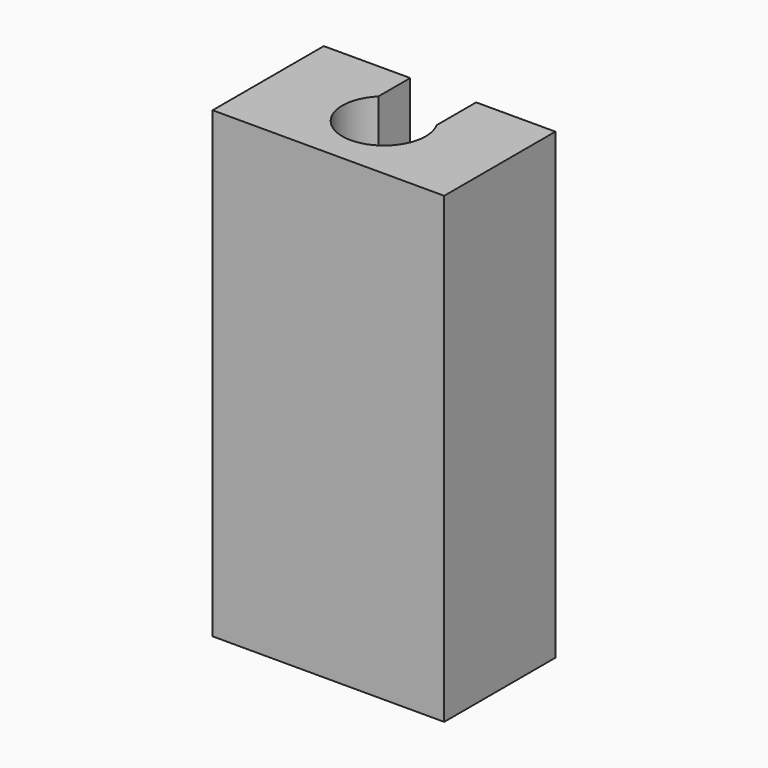
from build123d import *

# Parameters (mm, degrees)
F1_DEPTH = 100


with BuildPart() as f1:
    # F0 (on Top) → F1 (new body)
    with BuildSketch(Plane.XY):
        with BuildLine():
            Line((-25, -15), (25, -15))
            Line((25, -15), (25, 15))
            Line((25, 15), (7.893453, 15))
            Line((7.893453, 15), (7.893453, 4.323586))
            ThreePointArc((7.893453, 4.323586), (8.718976, 2.23147), (9, 0))
            ThreePointArc((9, 0), (-3.462897, -8.307126), (-6.335187, 6.392605))
            Line((-6.335187, 6.392605), (-6.335187, 15))
            Line((-6.335187, 15), (-25, 15))
            Line((-25, 15), (-25, -15))
        make_face()
    extrude(amount=F1_DEPTH)


solid = f1.part
